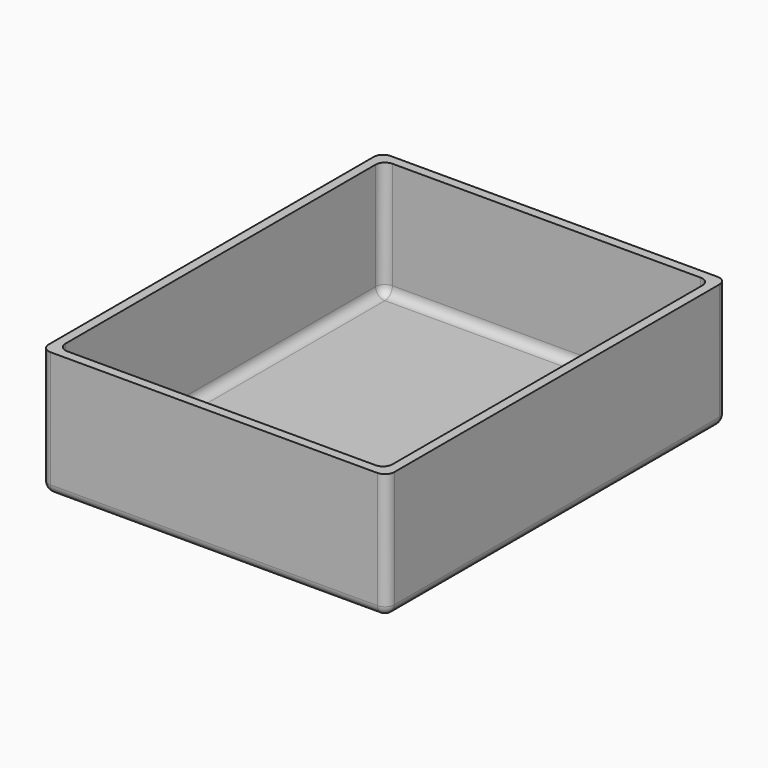
from build123d import *

# Parameters (mm, degrees)
BOX027_W     = 70
BOX027_H     = 87
BOX027_DEPTH = 39
FILLET050_R  = 2
BOX031_W     = 74
BOX031_H     = 91
BOX031_DEPTH = 27
FILLET046_R  = 2


with BuildPart() as bottomcut013:
    # Box027 → Box027 (new body)
    with BuildSketch(Plane(origin=(2, 2, 2), x_dir=(1, 0, 0), z_dir=(0, 0, 1))):
        with Locations((35, 43.5)):
            Rectangle(BOX027_W, BOX027_H)
    extrude(amount=BOX027_DEPTH)

    # Fillet050
    fillet050_edges = [bottomcut013.edges().sort_by_distance(p)[0] for p in [
        (2, 2, 21.5),
        (2, 89, 21.5),
        (2, 45.5, 2),
        (72, 2, 21.5),
        (72, 89, 21.5),
        (72, 45.5, 2),
        (37, 2, 2),
        (37, 89, 2),
    ]]
    fillet(fillet050_edges, radius=FILLET050_R)


with BuildPart() as bottom052:
    # Box031 → Box031 (new body)
    with BuildSketch(Plane.XY):
        with Locations((37, 45.5)):
            Rectangle(BOX031_W, BOX031_H)
    extrude(amount=BOX031_DEPTH)

    # Fillet046
    fillet046_edges = [bottom052.edges().sort_by_distance(p)[0] for p in [
        (0, 0, 13.5),
        (0, 91, 13.5),
        (0, 45.5, 0),
        (74, 0, 13.5),
        (74, 91, 13.5),
        (74, 45.5, 0),
        (37, 0, 0),
        (37, 91, 0),
    ]]
    fillet(fillet046_edges, radius=FILLET046_R)

    # Cut032: cut bottomCut013
    add(bottomcut013.part, mode=Mode.SUBTRACT)


solid = bottom052.part
